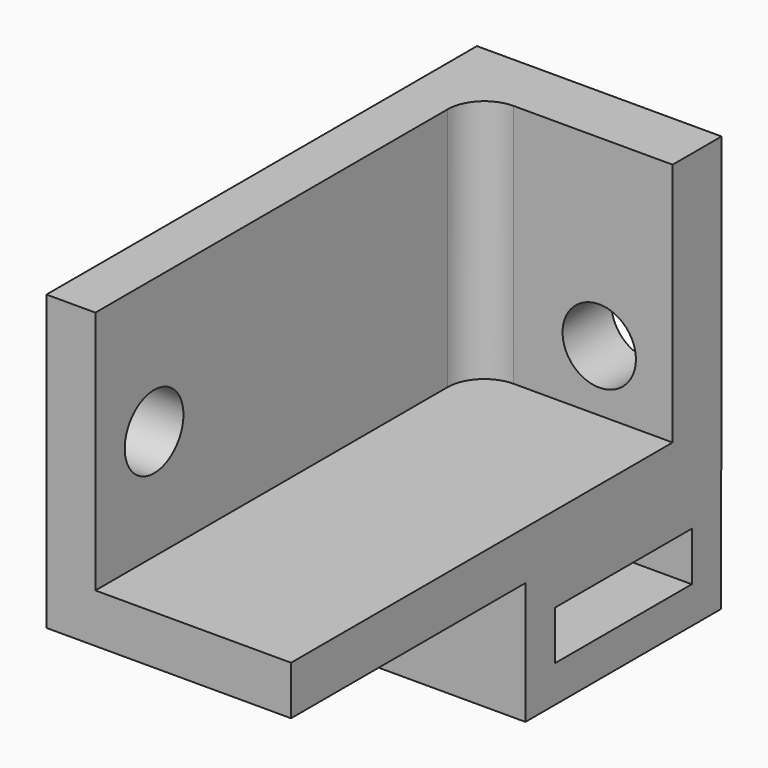
from build123d import *

# Parameters (mm, degrees)
PAD023_DEPTH    = 20
SKETCH041_R     = 3
POCKET012_DEPTH = 44.001
SKETCH042_R     = 3
POCKET013_DEPTH = 5
SKETCH044_W     = 44
SKETCH044_H     = 4
PAD025_DEPTH    = 20
SKETCH045_W     = 20
SKETCH045_H     = 10
SKETCH045_W_2   = 14
SKETCH045_H_2   = 4
PAD026_DEPTH    = 20
SKETCH046_R     = 1.4
POCKET014_DEPTH = 6.001


with BuildPart() as part:
    # Sketch040 → Pad023 (new body)
    with BuildSketch(Plane.XY):
        with BuildLine():
            Line((0, -44), (0, 0))
            Line((0, 0), (20, 0))
            Line((20, 0), (20, -5))
            Line((20, -5), (7, -5))
            ThreePointArc((7, -5), (4.87868, -5.87868), (4, -8))
            Line((4, -8), (4, -44))
            Line((4, -44), (0, -44))
        make_face()
    extrude(amount=PAD023_DEPTH)

    # Sketch041 → Pocket012 (cut, through all)
    with BuildSketch(Plane.XZ):
        with Locations((14, 5)):
            Circle(SKETCH041_R)
    extrude(amount=POCKET012_DEPTH, mode=Mode.SUBTRACT)

    # Sketch042 → Pocket013 (cut)
    with BuildSketch(Plane.YZ):
        with Locations((-38, 9)):
            Circle(SKETCH042_R)
    extrude(amount=POCKET013_DEPTH, mode=Mode.SUBTRACT)

    # Sketch044 → Pad025 (join)
    with BuildSketch(Plane.YZ):
        with Locations((-22, -2)):
            Rectangle(SKETCH044_W, SKETCH044_H)
    extrude(amount=PAD025_DEPTH)

    # Sketch045 → Pad026 (join)
    with BuildSketch(Plane.YZ):
        with Locations((-10.041618, -9)):
            Rectangle(SKETCH045_W, SKETCH045_H)
        with Locations((-10.041618, -9)):
            Rectangle(SKETCH045_W_2, SKETCH045_H_2, mode=Mode.SUBTRACT)
    extrude(amount=PAD026_DEPTH)

    # Sketch046 → Pocket014 (cut, through all)
    with BuildSketch(Plane.XY.offset(-8)):
        with Locations((10, -15)):
            Circle(SKETCH046_R)
        with Locations((10, -5)):
            Circle(SKETCH046_R)
    extrude(amount=-POCKET014_DEPTH, mode=Mode.SUBTRACT)


solid = part.part
